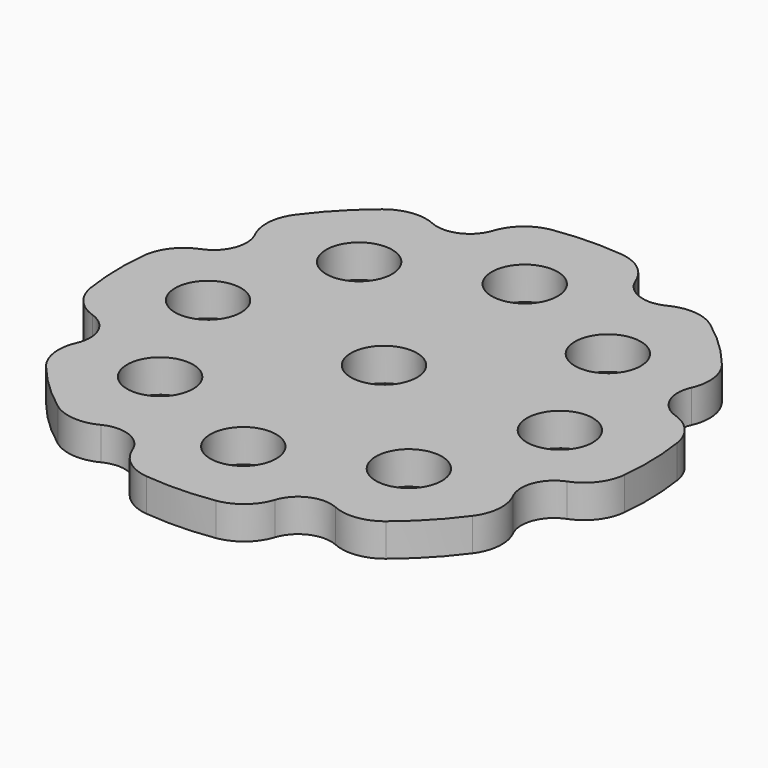
from build123d import *

# Parameters (mm, degrees)
F0_R     = 9.525
F1_DEPTH = 9.525
F2_R     = 12.7


with BuildPart() as f1:
    # F0 (on Top) → F1 (new body)
    with BuildSketch(Plane.XY):
        with BuildLine():
            ThreePointArc((-67.130446, 36.054725), (-62.216017, 23.973378), (-73.966592, 18.313472))
            ThreePointArc((-73.966592, 18.313472), (-76.176365, -1.897743), (-72.962934, -21.973854))
            ThreePointArc((-72.962934, -21.973854), (-60.945106, -27.041629), (-65.251859, -39.352698))
            ThreePointArc((-65.251859, -39.352698), (-52.522917, -55.206731), (-36.054725, -67.130446))
            ThreePointArc((-36.054725, -67.130446), (-23.973378, -62.216017), (-18.313472, -73.966592))
            ThreePointArc((-18.313472, -73.966592), (1.897743, -76.176365), (21.973854, -72.962934))
            ThreePointArc((21.973854, -72.962934), (27.041629, -60.945106), (39.352698, -65.251859))
            ThreePointArc((39.352698, -65.251859), (55.206731, -52.522917), (67.130446, -36.054725))
            ThreePointArc((67.130446, -36.054725), (62.216017, -23.973378), (73.966592, -18.313472))
            ThreePointArc((73.966592, -18.313472), (76.176365, 1.897743), (72.962934, 21.973854))
            ThreePointArc((72.962934, 21.973854), (60.945106, 27.041629), (65.251859, 39.352698))
            ThreePointArc((65.251859, 39.352698), (52.522917, 55.206731), (36.054725, 67.130446))
            ThreePointArc((36.054725, 67.130446), (23.973378, 62.216017), (18.313472, 73.966592))
            ThreePointArc((18.313472, 73.966592), (-1.897743, 76.176365), (-21.973854, 72.962934))
            ThreePointArc((-21.973854, 72.962934), (-27.041629, 60.945106), (-39.352698, 65.251859))
            ThreePointArc((-39.352698, 65.251859), (-55.206731, 52.522917), (-67.130446, 36.054725))
        make_face()
        with Locations((-35.921024, -35.921024)):
            Circle(F0_R, mode=Mode.SUBTRACT)
        with Locations((0, -50.8)):
            Circle(F0_R, mode=Mode.SUBTRACT)
        with Locations((35.921024, -35.921024)):
            Circle(F0_R, mode=Mode.SUBTRACT)
        with Locations((-50.8, 0)):
            Circle(F0_R, mode=Mode.SUBTRACT)
        with Locations((-35.921024, 35.921024)):
            Circle(F0_R, mode=Mode.SUBTRACT)
        Circle(F0_R, mode=Mode.SUBTRACT)
        with Locations((35.921024, 35.921024)):
            Circle(F0_R, mode=Mode.SUBTRACT)
        with Locations((50.8, 0)):
            Circle(F0_R, mode=Mode.SUBTRACT)
        with Locations((0, 50.8)):
            Circle(F0_R, mode=Mode.SUBTRACT)
    extrude(amount=F1_DEPTH)

    # F2
    f2_edges = [f1.edges().sort_by_distance(p)[0] for p in [
        (-21.973854, 72.962934, 4.7625),
        (-39.352698, 65.251859, 4.7625),
        (-67.130446, 36.054725, 4.7625),
        (-73.966592, 18.313472, 4.7625),
        (-72.962934, -21.973854, 4.7625),
        (-65.251859, -39.352698, 4.7625),
        (-36.054725, -67.130446, 4.7625),
        (-18.313472, -73.966592, 4.7625),
        (39.352698, -65.251859, 4.7625),
        (21.973854, -72.962934, 4.7625),
        (73.966592, -18.313472, 4.7625),
        (67.130446, -36.054725, 4.7625),
        (72.962934, 21.973854, 4.7625),
        (65.251859, 39.352698, 4.7625),
        (18.313472, 73.966592, 4.7625),
        (36.054725, 67.130446, 4.7625),
    ]]
    fillet(f2_edges, radius=F2_R)


solid = f1.part
